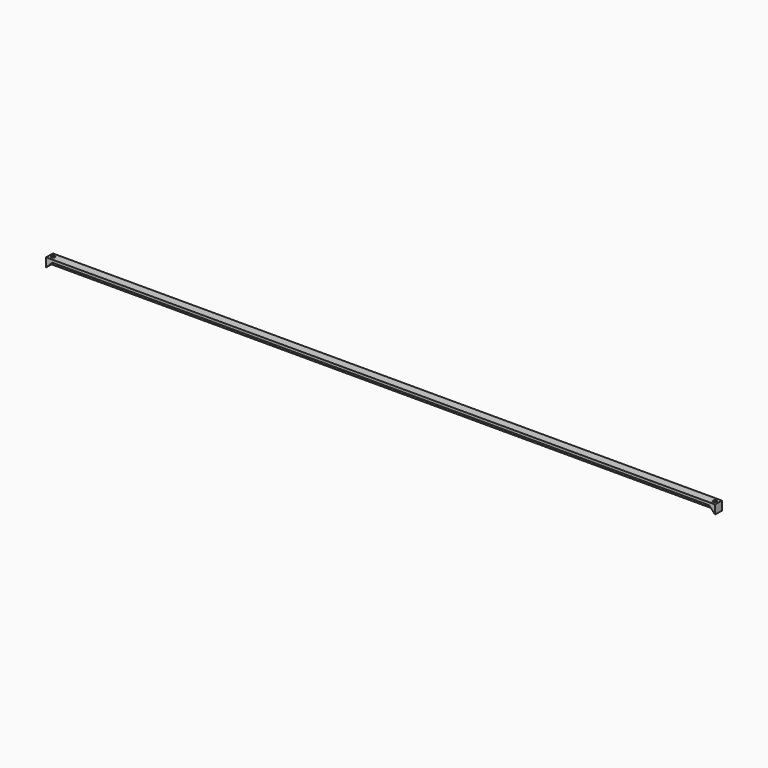
from build123d import *

# Parameters (mm, degrees)
F0_W     = 1500
F0_H     = 20
F1_DEPTH = 15
F3_DEPTH = 25
F4_W     = 1500
F4_H     = 20
F5_DEPTH = 4
F6_R     = 4
F7_DEPTH = 20.001


with BuildPart() as f1:
    # F0 (on Front) → F1 (new body)
    with BuildSketch(Plane.XZ):
        Rectangle(F0_W, F0_H)
    extrude(amount=F1_DEPTH)

    # F2 (on face) → F3 (cut)
    with BuildSketch(Plane(origin=(0, 0, 0), x_dir=(-1, 0, 0), z_dir=(0, 1, 0))):
        Polygon((-736, 4), (-750, -10), (750, -10), (736, 4), align=None)
    extrude(amount=-F3_DEPTH, mode=Mode.SUBTRACT)

    # F4 (on face) → F5 (join)
    with BuildSketch(Plane(origin=(0, 0, 0), x_dir=(-1, 0, 0), z_dir=(0, 1, 0))):
        Rectangle(F4_W, F4_H)
    extrude(amount=F5_DEPTH)

    # F6 (on face) → F7 (cut, through all)
    with BuildSketch(Plane.XY.offset(10)):
        with Locations((-742, -5.5)):
            Circle(F6_R)
        with Locations((742, -5.5)):
            Circle(F6_R)
    extrude(amount=-F7_DEPTH, mode=Mode.SUBTRACT)


solid = f1.part
